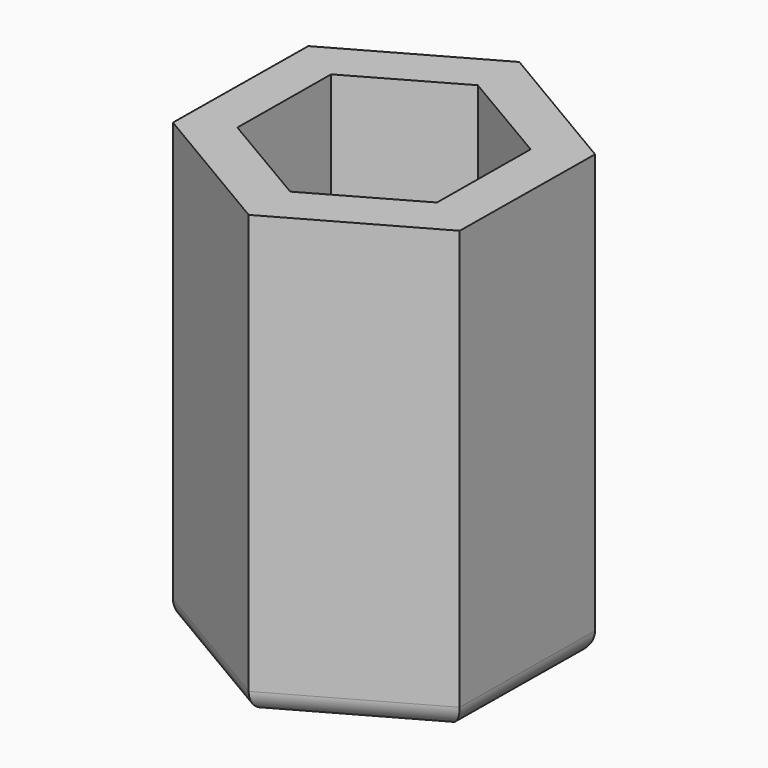
from build123d import *

# Parameters (mm, degrees)
F1_DEPTH = 10
F2_DEPTH = 20
F3_R     = 1


with BuildPart() as f1:
    # F0 (on Top) → F1 (new body)
    with BuildSketch(Plane.XY):
        Polygon((4.571693, 2.589007), (0.0437, 5.253706), (-4.527993, 2.664698), (-4.571693, -2.589007), (-0.0437, -5.253706), (4.527993, -2.664698), align=None)
    extrude(amount=F1_DEPTH)

    # F0 (on Top) → F2 (join)
    with BuildSketch(Plane.XY):
        Polygon((6.589365, 3.712885), (0.07923, 7.563), (-6.510135, 3.850115), (-6.589365, -3.712885), (-0.07923, -7.563), (6.510135, -3.850115), align=None)
        Polygon((-4.527993, 2.664698), (0.0437, 5.253706), (4.571693, 2.589007), (4.527993, -2.664698), (-0.0437, -5.253706), (-4.571693, -2.589007), align=None, mode=Mode.SUBTRACT)
    extrude(amount=F2_DEPTH)

    # F3
    f3_edges = [f1.edges().sort_by_distance(p)[0] for p in [
        (3.215452, -5.706557, 0),
        (-3.334297, -5.637942, 0),
        (-6.54975, 0.068615, 0),
        (-3.215452, 5.706557, 0),
        (3.334297, 5.637942, 0),
        (6.54975, -0.068615, 0),
    ]]
    fillet(f3_edges, radius=F3_R)


solid = f1.part
